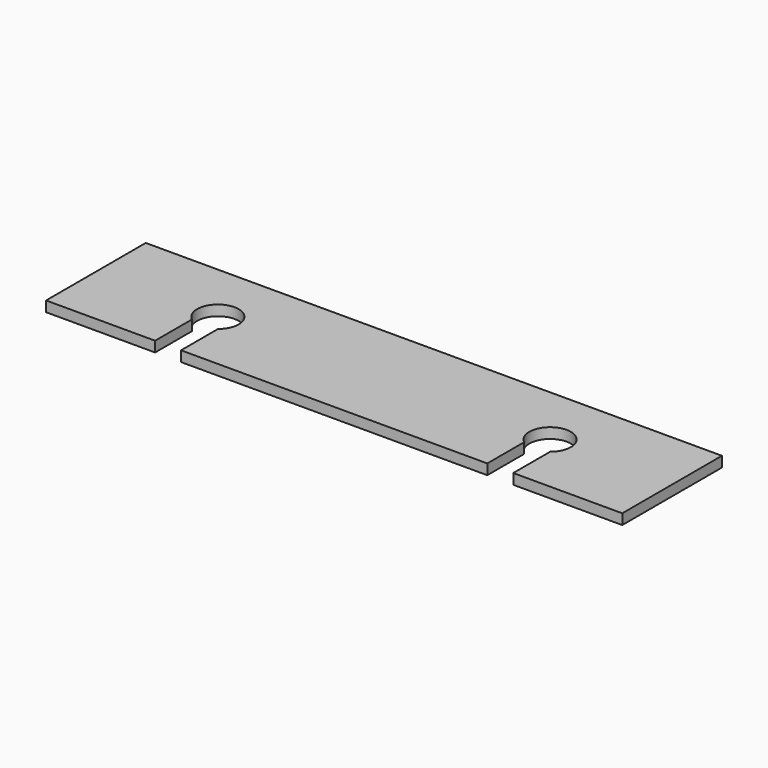
from build123d import *

# Parameters (mm, degrees)
PAD_DEPTH = 2


with BuildPart() as part:
    # Sketch → Pad (new body)
    with BuildSketch(Plane.XY):
        with BuildLine():
            Line((-55.5, 20), (55.5, 20))
            Line((55.5, 20), (55.5, -4))
            Line((55.5, -4), (34.5, -4))
            Line((34.5, 4.877501), (34.5, -4))
            ThreePointArc((34.5, 4.877501), (32, 12), (29.5, 4.877501))
            Line((29.5, -4), (29.5, 4.877501))
            Line((29.5, -4), (-29.5, -4))
            Line((-29.5, 4.877501), (-29.5, -4))
            ThreePointArc((-29.5, 4.877501), (-32, 12), (-34.5, 4.877501))
            Line((-34.5, -4), (-34.5, 4.877501))
            Line((-34.5, -4), (-55.5, -4))
            Line((-55.5, -4), (-55.5, 20))
        make_face()
    extrude(amount=PAD_DEPTH)


solid = part.part
